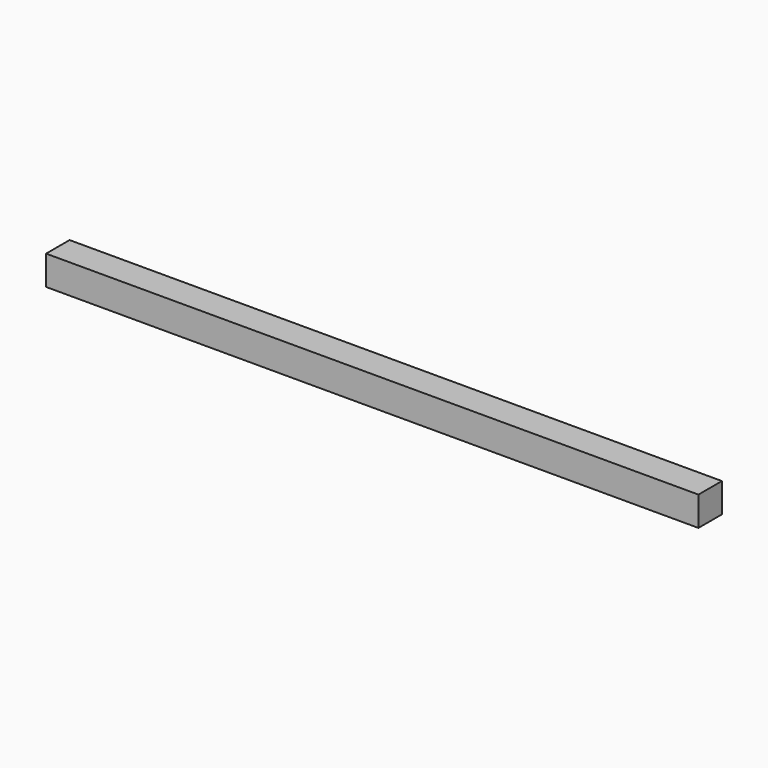
from build123d import *

# Parameters (mm, degrees)
SKETCH_W  = 18
SKETCH_H  = 18
PAD_DEPTH = 200


with BuildPart() as part:
    # Sketch → Pad (new body, symmetric)
    with BuildSketch(Plane.YZ):
        with Locations((9, 9)):
            Rectangle(SKETCH_W, SKETCH_H)
    extrude(amount=PAD_DEPTH, both=True)


solid = part.part
